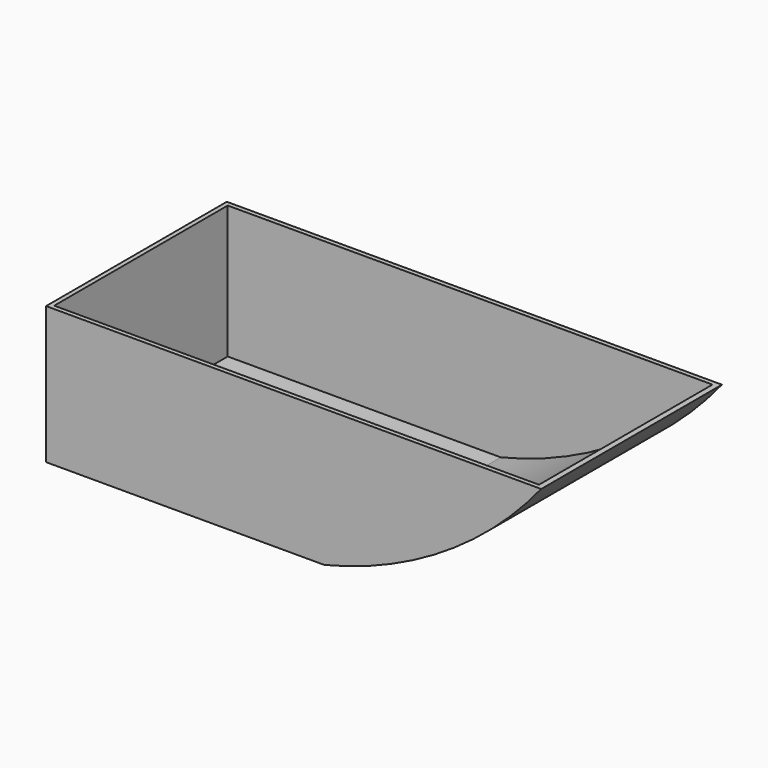
from build123d import *

# Parameters (mm, degrees)
F1_DEPTH = 127
F2_T     = -2.54


with BuildPart() as f1:
    # F0 (on Front) → F1 (new body)
    with BuildSketch(Plane.XZ):
        with BuildLine():
            Line((121.986322, 0), (0, 0))
            Line((0, 0), (-156.365767, 0))
            Line((-156.365767, 0), (-156.365767, -77.248434))
            Line((-156.365767, -77.248434), (0, -77.248434))
            ThreePointArc((0, -77.248434), (67.361393, -48.680566), (121.986322, 0))
        make_face()
    extrude(amount=F1_DEPTH)

    # F2
    f2_openings = [f1.faces().sort_by_distance(p)[0] for p in [
        (-17.189723, -63.5, 0),
    ]]
    offset(amount=F2_T, openings=f2_openings)


solid = f1.part
